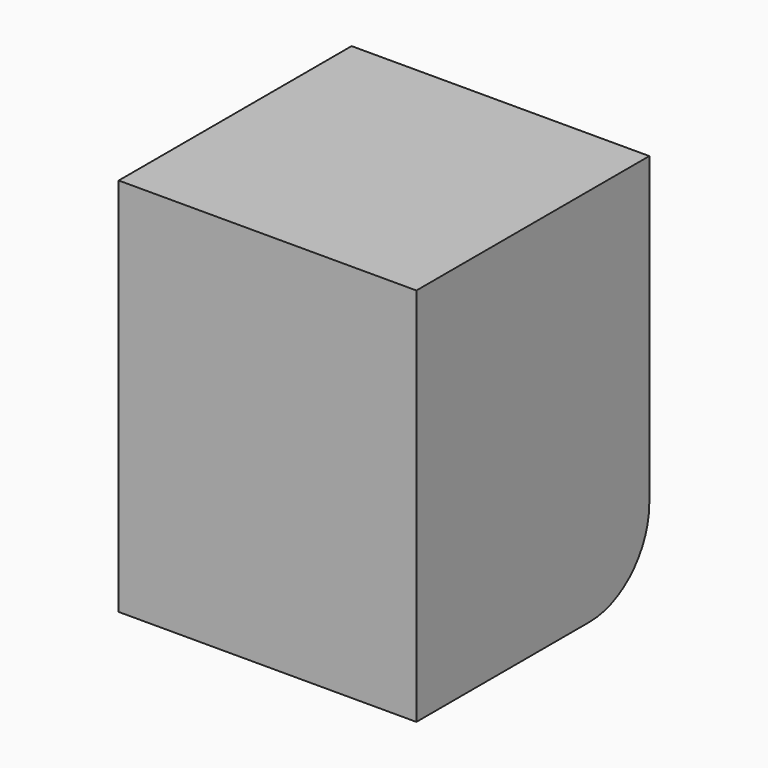
from build123d import *

# Parameters (mm, degrees)
F1_DEPTH = 25.4


with BuildPart() as f1:
    # F0 (on Right) → F1 (new body)
    with BuildSketch(Plane.YZ):
        with BuildLine():
            Line((-10.786085, 37.710954), (-35.62377, 37.710954))
            Line((-35.62377, 37.710954), (-35.62377, 5.30417))
            Line((-35.62377, 5.30417), (-17.136085, 5.30417))
            ThreePointArc((-17.136085, 5.30417), (-12.645957, 7.164042), (-10.786085, 11.65417))
            Line((-10.786085, 11.65417), (-10.786085, 37.710954))
        make_face()
    extrude(amount=F1_DEPTH)


solid = f1.part
